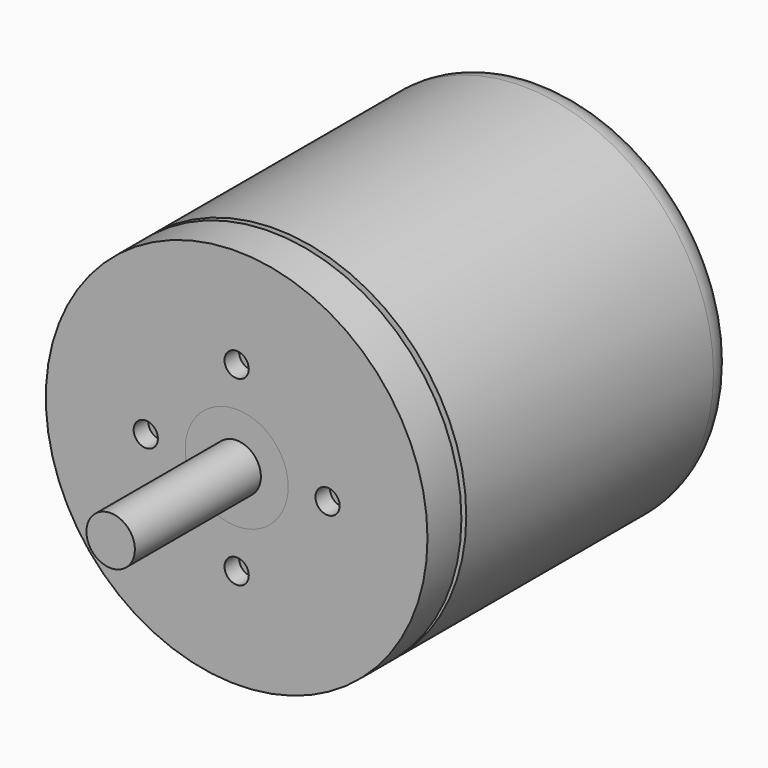
from build123d import *

# Parameters (mm, degrees)
F0_R          = 31.5
F0_R_2        = 16
F1_DEPTH      = 56
F2_R          = 5
F0_R_3        = 8.5
F0_R_4        = 4
F3_DEPTH      = 64
F3_DEPTH_BACK = 7
F4_DEPTH      = 90
F4_DEPTH_BACK = 7
F5_DEPTH      = 3
F6_START      = 57
F6_DEPTH      = 7
F7_R          = 2
F8_DEPTH      = 3


with BuildPart() as f1:
    # F0 (on Front) → F1 (new body)
    with BuildSketch(Plane.XZ):
        Circle(F0_R)
        Circle(F0_R_2, mode=Mode.SUBTRACT)
    extrude(amount=F1_DEPTH)

    # F2
    f2_edges = [f1.edges().sort_by_distance(p)[0] for p in [
        (-31.5, 0, 0),
    ]]
    fillet(f2_edges, radius=F2_R)


with BuildPart() as f3:
    # F0 (on Front) → F3 (new body, two sides)
    with BuildSketch(Plane.XZ) as f3_sk:
        Circle(F0_R_3)
        Circle(F0_R_4, mode=Mode.SUBTRACT)
    extrude(amount=F3_DEPTH)
    extrude(f3_sk.sketch, amount=-F3_DEPTH_BACK)


with BuildPart() as f4:
    # F0 (on Front) → F4 (new body, two sides)
    with BuildSketch(Plane.XZ) as f4_sk:
        Circle(F0_R_4)
    extrude(amount=F4_DEPTH)
    extrude(f4_sk.sketch, amount=-F4_DEPTH_BACK)


with BuildPart() as f5:
    # F0 (on Front) → F5 (new body)
    with BuildSketch(Plane.XZ):
        Circle(F0_R_2)
        Circle(F0_R_3, mode=Mode.SUBTRACT)
    extrude(amount=F5_DEPTH)


with BuildPart() as f6:
    # F0 (on Front) → F6 (new body)
    with BuildSketch(Plane.XZ.offset(F6_START)):
        Circle(F0_R)
        Circle(F0_R_2, mode=Mode.SUBTRACT)
        Circle(F0_R_2)
        Circle(F0_R_3, mode=Mode.SUBTRACT)
    extrude(amount=F6_DEPTH)

    # F7 (on face) → F8 (cut)
    with BuildSketch(Plane.XZ.offset(64)):
        with Locations((0, 15)):
            Circle(F7_R)
        with Locations((-15, 0)):
            Circle(F7_R)
        with Locations((0, -15)):
            Circle(F7_R)
        with Locations((15, 0)):
            Circle(F7_R)
    extrude(amount=-F8_DEPTH, mode=Mode.SUBTRACT)


solid = Compound([f1.part, f3.part, f4.part, f5.part, f6.part])
